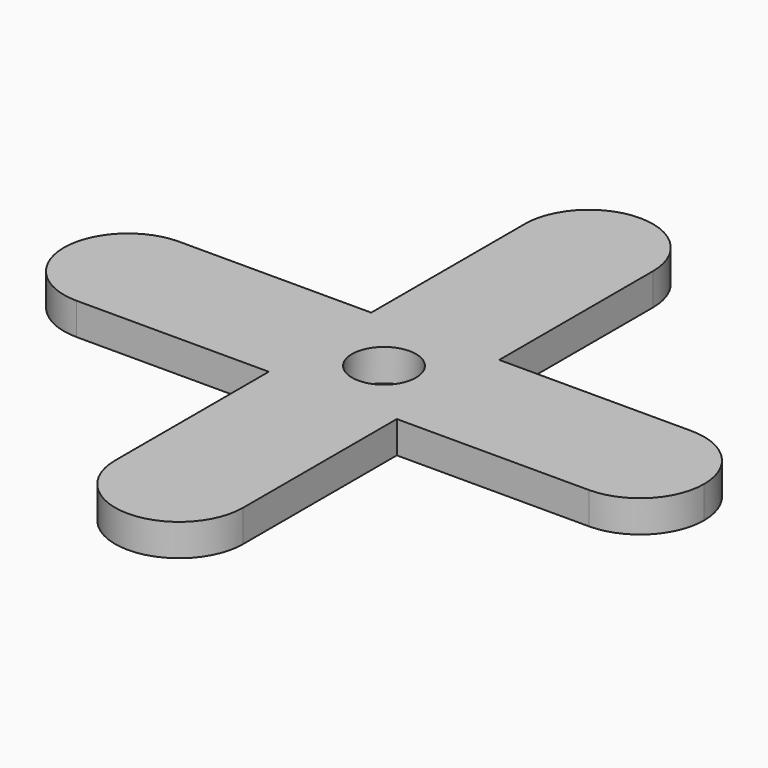
from build123d import *

# Parameters (mm, degrees)
F0_W     = 6.35
F0_H     = 6.35
F0_R     = 1.5875
F1_DEPTH = 1.5875


with BuildPart() as f1:
    # F0 (on Top) → F1 (new body)
    with BuildSketch(Plane.XY):
        with BuildLine():
            ThreePointArc((-3.175, -12.7), (0, -15.875), (3.175, -12.7))
            Line((3.175, -12.7), (-3.175, -12.7))
        make_face()
        with BuildLine():
            Line((-3.175, -12.7), (3.175, -12.7))
            ThreePointArc((3.175, -12.7), (0, -9.525), (-3.175, -12.7))
        make_face()
        with BuildLine():
            ThreePointArc((-3.175, -12.7), (0, -9.525), (3.175, -12.7))
            Line((3.175, -12.7), (3.175, -3.175))
            Line((3.175, -3.175), (-3.175, -3.175))
            Line((-3.175, -3.175), (-3.175, -12.7))
        make_face()
        with BuildLine():
            Line((-12.7, -3.175), (-3.175, -3.175))
            Line((-3.175, -3.175), (-3.175, 3.175))
            Line((-3.175, 3.175), (-12.7, 3.175))
            ThreePointArc((-12.7, 3.175), (-10.4549359697, 2.2450640303), (-9.525, 0))
            ThreePointArc((-9.525, 0), (-10.4549359697, -2.2450640303), (-12.7, -3.175))
        make_face()
        with BuildLine():
            Line((3.175, 3.175), (3.175, -3.175))
            Line((3.175, -3.175), (12.7, -3.175))
            ThreePointArc((12.7, -3.175), (9.525, 0), (12.7, 3.175))
            Line((12.7, 3.175), (3.175, 3.175))
        make_face()
        with BuildLine():
            Line((-3.175, 3.175), (3.175, 3.175))
            Line((3.175, 3.175), (3.175, 12.7))
            ThreePointArc((3.175, 12.7), (0, 9.525), (-3.175, 12.7))
            Line((-3.175, 12.7), (-3.175, 3.175))
        make_face()
        Rectangle(F0_W, F0_H)
        Circle(F0_R, mode=Mode.SUBTRACT)
        with BuildLine():
            ThreePointArc((-12.7, 3.175), (-15.875, 0), (-12.7, -3.175))
            Line((-12.7, -3.175), (-12.7, 3.175))
        make_face()
        with BuildLine():
            Line((-12.7, 3.175), (-12.7, -3.175))
            ThreePointArc((-12.7, -3.175), (-10.4549359697, -2.2450640303), (-9.525, 0))
            ThreePointArc((-9.525, 0), (-10.4549359697, 2.2450640303), (-12.7, 3.175))
        make_face()
        with BuildLine():
            ThreePointArc((-3.175, 12.7), (0, 9.525), (3.175, 12.7))
            Line((3.175, 12.7), (-3.175, 12.7))
        make_face()
        with BuildLine():
            Line((-3.175, 12.7), (3.175, 12.7))
            ThreePointArc((3.175, 12.7), (0, 15.875), (-3.175, 12.7))
        make_face()
        with BuildLine():
            Line((12.7, 3.175), (12.7, -3.175))
            ThreePointArc((12.7, -3.175), (14.9450640303, -2.2450640303), (15.875, 0))
            ThreePointArc((15.875, 0), (14.9450640303, 2.2450640303), (12.7, 3.175))
        make_face()
        with BuildLine():
            ThreePointArc((12.7, 3.175), (9.525, 0), (12.7, -3.175))
            Line((12.7, -3.175), (12.7, 3.175))
        make_face()
    extrude(amount=F1_DEPTH)


solid = f1.part
